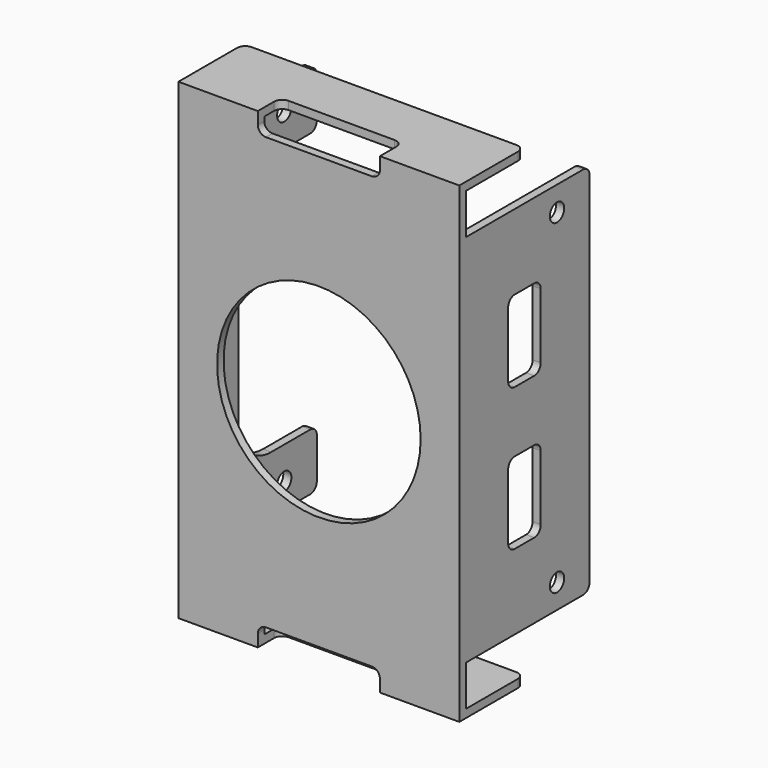
from build123d import *

# Parameters (mm, degrees)
F1_DEPTH  = 56
F2_W      = 4
F2_H      = 38
F2_R      = 1.1
F2_R_2    = 12.5
F3_DEPTH  = 1
F4_W      = 21
F4_H      = 56
F4_R      = 1.1
F5_DEPTH  = 1
F6_W      = 20
F6_H      = 5
F7_DEPTH  = 1
F8_W      = 36
F8_H      = 38
F9_DEPTH  = 1
F11_R     = 1.1
F11_W     = 12
F11_H     = 32
F12_DEPTH = 1
F13_W     = 34.5
F13_H     = 1
F14_DEPTH = 10
F15_R     = 12.5
F15_W     = 15
F15_H     = 5
F16_DEPTH = 3.5
F18_DEPTH = 1
F19_R     = 1
F20_R     = 5


with BuildPart() as f1:
    # F0 (on Top) → F1 (new body)
    with BuildSketch(Plane.XY):
        Polygon((16.25, -20), (-16.25, -20), (-16.25, 20), (-17.25, 20), (-17.25, -21), (17.25, -21), (17.25, 20), (16.25, 20), align=None)
    extrude(amount=F1_DEPTH)

    # F2 (on face) → F3 (cut, through all)
    with BuildSketch(Plane(origin=(-17.25, 0, 0), x_dir=(0, -1, 0), z_dir=(-1, 0, 0))):
        Polygon((-20, 0), (20, 0), (20, 9), (-16, 9), (-20, 9), align=None)
        with Locations((-18, 28)):
            Rectangle(F2_W, F2_H)
        Polygon((-20, 56), (-20, 47), (-16, 47), (20, 47), (20, 56), align=None)
        with Locations((18, 43)):
            Circle(F2_R)
        with Locations((-12, 43)):
            Circle(F2_R)
        with Locations((-12, 13)):
            Circle(F2_R)
        with Locations((18, 13)):
            Circle(F2_R)
        with Locations((3, 28)):
            Circle(F2_R_2)
    extrude(amount=-F3_DEPTH, mode=Mode.SUBTRACT)

    # F4 (on face) → F5 (cut, through all)
    with BuildSketch(Plane.YZ.offset(17.25)):
        with Locations((9.5, 28)):
            Rectangle(F4_W, F4_H)
        with Locations((-6, 8)):
            Circle(F4_R)
        with Locations((-6, 48)):
            Circle(F4_R)
    extrude(amount=-F5_DEPTH, mode=Mode.SUBTRACT)

    # F6 (on face) → F7 (cut)
    with BuildSketch(Plane.YZ.offset(17.25)):
        with Locations((-11, 2.5)):
            Rectangle(F6_W, F6_H)
        with Locations((-11, 53.5)):
            Rectangle(F6_W, F6_H)
    extrude(amount=-F7_DEPTH, mode=Mode.SUBTRACT)

    # F8 (on face) → F9 (cut)
    with BuildSketch(Plane(origin=(-17.25, 0, 0), x_dir=(0, -1, 0), z_dir=(-1, 0, 0))):
        with Locations((2, 28)):
            Rectangle(F8_W, F8_H)
    extrude(amount=-F9_DEPTH, mode=Mode.SUBTRACT)

    # F10: F1 across plane


with BuildPart() as f1_1:
    add(f1.part)
    add(f1.part.mirror(Plane.YZ))

    # F11 (on face) → F12 (cut, through all)
    with BuildSketch(Plane(origin=(-17.25, 0, 0), x_dir=(0, -1, 0), z_dir=(-1, 0, 0))):
        with Locations((17, 43)):
            Circle(F11_R)
        with Locations((17, 13)):
            Circle(F11_R)
        with Locations((7, 28)):
            Rectangle(F11_W, F11_H)
    extrude(amount=-F12_DEPTH, mode=Mode.SUBTRACT)

    # F13 (on face) → F14 (join)
    with BuildSketch(Plane.XZ.offset(21)):
        with Locations((0, -0.5)):
            Rectangle(F13_W, F13_H)
        with Locations((0, 56.5)):
            Rectangle(F13_W, F13_H)
    extrude(amount=-F14_DEPTH)

    # F15 (on face) → F16 (cut)
    with BuildSketch(Plane.XZ.offset(21)):
        with Locations((0, 28)):
            Circle(F15_R)
        with Locations((0, 57)):
            Rectangle(F15_W, F15_H)
        with Locations((0, -1)):
            Rectangle(F15_W, F15_H)
    extrude(amount=-F16_DEPTH, mode=Mode.SUBTRACT)

    # F17 (on face) → F18 (cut, through all)
    with BuildSketch(Plane.YZ.offset(17.25)):
        with BuildLine():
            ThreePointArc((-13.5, 15.25), (-13.2071067812, 14.5428932188), (-12.5, 14.25))
            Line((-12.5, 14.25), (-9.5, 14.25))
            ThreePointArc((-9.5, 14.25), (-8.7928932188, 14.5428932188), (-8.5, 15.25))
            Line((-8.5, 15.25), (-8.5, 23.25))
            ThreePointArc((-8.5, 23.25), (-8.7928932188, 23.9571067812), (-9.5, 24.25))
            Line((-9.5, 24.25), (-12.5, 24.25))
            ThreePointArc((-12.5, 24.25), (-13.2071067812, 23.9571067812), (-13.5, 23.25))
            Line((-13.5, 23.25), (-13.5, 15.25))
        make_face()
        with BuildLine():
            ThreePointArc((-12.5, 41.75), (-13.2071067812, 41.4571067812), (-13.5, 40.75))
            Line((-13.5, 40.75), (-13.5, 32.75))
            ThreePointArc((-13.5, 32.75), (-13.2071067812, 32.0428932188), (-12.5, 31.75))
            Line((-12.5, 31.75), (-9.5, 31.75))
            ThreePointArc((-9.5, 31.75), (-8.7928932188, 32.0428932188), (-8.5, 32.75))
            Line((-8.5, 32.75), (-8.5, 40.75))
            ThreePointArc((-8.5, 40.75), (-8.7928932188, 41.4571067812), (-9.5, 41.75))
            Line((-9.5, 41.75), (-12.5, 41.75))
        make_face()
    extrude(amount=-F18_DEPTH, mode=Mode.SUBTRACT)

    # F19
    f19_edges = [f1_1.edges().sort_by_distance(p)[0] for p in [
        (-17.25, -11, 56.5),
        (17.25, -11, 56.5),
        (16.75, -1, 51),
        (16.75, -1, 5),
        (-16.75, -1, 5),
        (-16.75, -1, 12),
        (-16.75, -1, 51),
        (-16.75, -1, 44),
        (-17.25, -11, -0.5),
        (17.25, -11, -0.5),
        (7.5, -20.5, 1.5),
        (7.5, -17.5, -0.5),
        (-7.5, -20.5, 1.5),
        (-7.5, -17.5, -0.5),
        (7.5, -20.5, 54.5),
        (7.5, -17.5, 56.5),
        (-7.5, -17.5, 56.5),
        (-7.5, -20.5, 54.5),
    ]]
    fillet(f19_edges, radius=F19_R)

    # F20
    f20_edges = [f1_1.edges().sort_by_distance(p)[0] for p in [
        (-16.75, -13, 44),
        (-16.75, -13, 12),
    ]]
    fillet(f20_edges, radius=F20_R)


solid = f1_1.part
